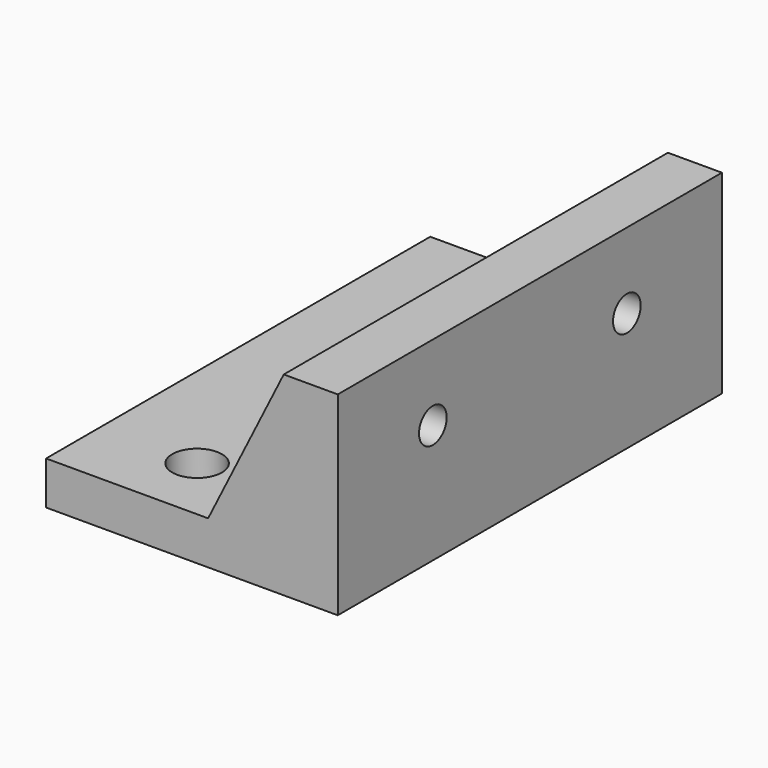
from build123d import *

# Parameters (mm, degrees)
TABFACEPLATESKETCH_W      = 27
TABFACEPLATESKETCH_H      = 44.45
TABFACEPLATEPAD_DEPTH     = 4
TABFLANGESKETCH_W         = 5
TABFLANGESKETCH_H         = 44.45
TABFLANGEPAD_DEPTH        = 14
BOTTOMGUSSETPAD_DEPTH     = 4
TOPGUSSETPAD_DEPTH        = 4
RAILHOLESSKETCH_R         = 2.3
RAILHOLESSKETCH_R_2       = 3.15
RAILHOLESPOCKET_DEPTH     = 18.001
TABJOINTHOLESSKETCH_R     = 1.6
TABJOINTHOLESPOCKET_DEPTH = 5.001
TABINSIDEFILLETS_R        = 2


with BuildPart() as part:
    # TabFacePlateSketch → TabFacePlatePad (new body)
    with BuildSketch(Plane.XY):
        with Locations((-13.5, 22.225)):
            Rectangle(TABFACEPLATESKETCH_W, TABFACEPLATESKETCH_H)
    extrude(amount=TABFACEPLATEPAD_DEPTH)

    # TabFlangeSketch (on Face6 of TabFacePlatePad) → TabFlangePad (join)
    with BuildSketch(Plane.XY.offset(4)):
        with Locations((-2.5, 22.225)):
            Rectangle(TABFLANGESKETCH_W, TABFLANGESKETCH_H)
    extrude(amount=TABFLANGEPAD_DEPTH)

    # BottomGussetSketch (on Face6 of TabFlangePad) → BottomGussetPad (join)
    with BuildSketch(Plane.XZ):
        Polygon((-12, 4), (-5, 4), (-5, 18), align=None)
    extrude(amount=-BOTTOMGUSSETPAD_DEPTH)

    # TopGussetSketch (on Face2 of BottomGussetPad) → TopGussetPad (join)
    with BuildSketch(Plane(origin=(0, 44.45, 0), x_dir=(-1, 0, 0), z_dir=(0, 1, 0))):
        Polygon((12, 4), (5, 4), (5, 18), align=None)
    extrude(amount=-TOPGUSSETPAD_DEPTH)

    # RailHolesSketch (on Face3 of TopGussetPad) → RailHolesPocket (cut, through all)
    with BuildSketch(Plane(origin=(0, 0, 0), x_dir=(1, 0, 0), z_dir=(0, 0, -1))):
        with Locations((-18, -6.225)):
            Circle(RAILHOLESSKETCH_R)
        with Locations((-18, -22.225)):
            Circle(RAILHOLESSKETCH_R_2)
        with Locations((-18, -38.225)):
            Circle(RAILHOLESSKETCH_R)
    extrude(amount=-RAILHOLESPOCKET_DEPTH, mode=Mode.SUBTRACT)

    # TabJointHolesSketch (on Face14 of RailHolesPocket) → TabJointHolesPocket (cut, through all)
    with BuildSketch(Plane(origin=(-5, 0, 0), x_dir=(0, -1, 0), z_dir=(-1, 0, 0))):
        with Locations((-11, 11)):
            Circle(TABJOINTHOLESSKETCH_R)
        with Locations((-33.45, 11)):
            Circle(TABJOINTHOLESSKETCH_R)
    extrude(amount=-TABJOINTHOLESPOCKET_DEPTH, mode=Mode.SUBTRACT)

    # TabInsideFillets
    tabinsidefillets_edges = [part.edges().sort_by_distance(p)[0] for p in [
        (-5, 22.225, 4),
        (-5, 40.45, 11),
        (-5, 4, 11),
        (-8.5, 40.45, 4),
        (-8.5, 4, 4),
    ]]
    fillet(tabinsidefillets_edges, radius=TABINSIDEFILLETS_R)


solid = part.part
